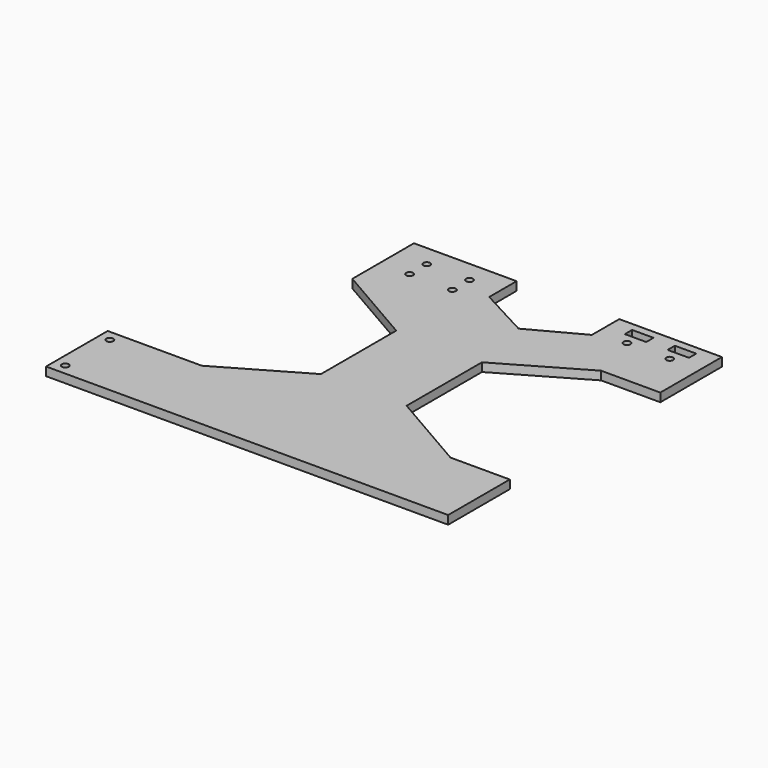
from build123d import *

# Parameters (mm, degrees)
PAD_DEPTH       = 4
SKETCH001_R     = 1.625
SKETCH001_W     = 10
SKETCH001_H     = 4.25
POCKET_DEPTH    = 5
SKETCH002_R     = 1.625
POCKET001_DEPTH = 4.001


with BuildPart() as part:
    # Sketch → Pad (new body)
    with BuildSketch(Plane.XY):
        Polygon((-50, 80), (-2, 80), (-2, 64), (22, 51.15559), (46, 64), (46, 80), (94, 80), (94, 44), (66.29, 44), (28.184882, 22), (28.184882, -22), (66.29, -44), (94, -44), (94, -80), (-94, -80), (-94, -44), (-50, -44), (-11.894882, -22), (-11.894882, 22), (-50, 44), align=None)
    extrude(amount=PAD_DEPTH)

    # Sketch001 (on Face22 of Pad) → Pocket (cut)
    with BuildSketch(Plane.XY.offset(4)):
        with Locations((-36, 70)):
            Circle(SKETCH001_R)
        with Locations((-16, 70)):
            Circle(SKETCH001_R)
        with Locations((-16, 60)):
            Circle(SKETCH001_R)
        with Locations((-36, 60)):
            Circle(SKETCH001_R)
        with Locations((60, 67)):
            Circle(SKETCH001_R)
        with Locations((80, 67)):
            Circle(SKETCH001_R)
        with Locations((60, 74.125)):
            Rectangle(SKETCH001_W, SKETCH001_H)
        with Locations((80, 74.125)):
            Rectangle(SKETCH001_W, SKETCH001_H)
    extrude(amount=-POCKET_DEPTH, mode=Mode.SUBTRACT)

    # Sketch002 (on Face5 of Pocket) → Pocket001 (cut, through all)
    with BuildSketch(Plane.XY.offset(4)):
        with Locations((-89, -49)):
            Circle(SKETCH002_R)
        with Locations((-89, -75)):
            Circle(SKETCH002_R)
    extrude(amount=-POCKET001_DEPTH, mode=Mode.SUBTRACT)


solid = part.part
